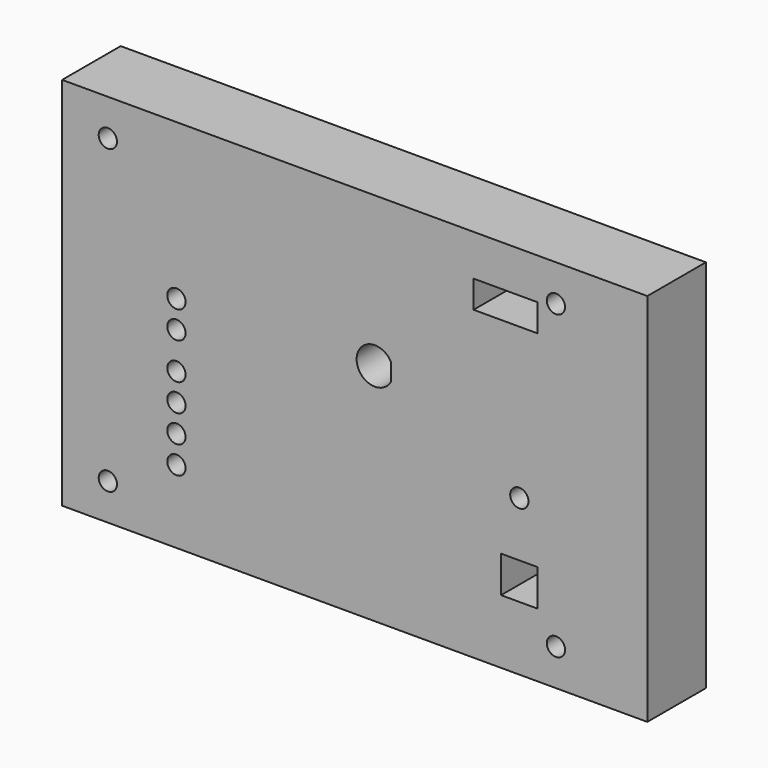
from build123d import *

# Parameters (mm, degrees)
F0_W     = 203.2
F0_H     = 130.175
F0_R     = 3.175
F0_W_2   = 12.7
F0_H_2   = 12.7
F0_W_3   = 22.225
F0_H_3   = 9.525
F1_DEPTH = 25.4


with BuildPart() as f1:
    # F0 (on Front) → F1 (new body)
    with BuildSketch(Plane.XZ):
        with Locations((-6.35, -12.95526)):
            Rectangle(F0_W, F0_H)
        with Locations((-92.075, -65.34276)):
            Circle(F0_R, mode=Mode.SUBTRACT)
        with Locations((-68.2625, -52.64276)):
            Circle(F0_R, mode=Mode.SUBTRACT)
        with Locations((-68.2625, -43.11776)):
            Circle(F0_R, mode=Mode.SUBTRACT)
        with Locations((-68.2625, -33.59276)):
            Circle(F0_R, mode=Mode.SUBTRACT)
        with Locations((-68.2625, -24.06776)):
            Circle(F0_R, mode=Mode.SUBTRACT)
        with Locations((63.5, -65.34276)):
            Circle(F0_R, mode=Mode.SUBTRACT)
        with Locations((50.8, -49.46776)):
            Rectangle(F0_W_2, F0_H_2, mode=Mode.SUBTRACT)
        with Locations((50.8, -24.06776)):
            Circle(F0_R, mode=Mode.SUBTRACT)
        with Locations((-68.2625, -11.36776)):
            Circle(F0_R, mode=Mode.SUBTRACT)
        with Locations((-68.2625, -1.84276)):
            Circle(F0_R, mode=Mode.SUBTRACT)
        with Locations((-92.075, 39.43224)):
            Circle(F0_R, mode=Mode.SUBTRACT)
        with BuildLine():
            ThreePointArc((6.209542, -3.074181), (-5.696708, 0), (6.209542, 3.074181))
            Line((6.209542, 3.074181), (6.209542, -3.074181))
        make_face(mode=Mode.SUBTRACT)
        with Locations((46.0375, 33.08224)):
            Rectangle(F0_W_3, F0_H_3, mode=Mode.SUBTRACT)
        with Locations((63.5, 39.43224)):
            Circle(F0_R, mode=Mode.SUBTRACT)
    extrude(amount=-F1_DEPTH)


solid = f1.part
